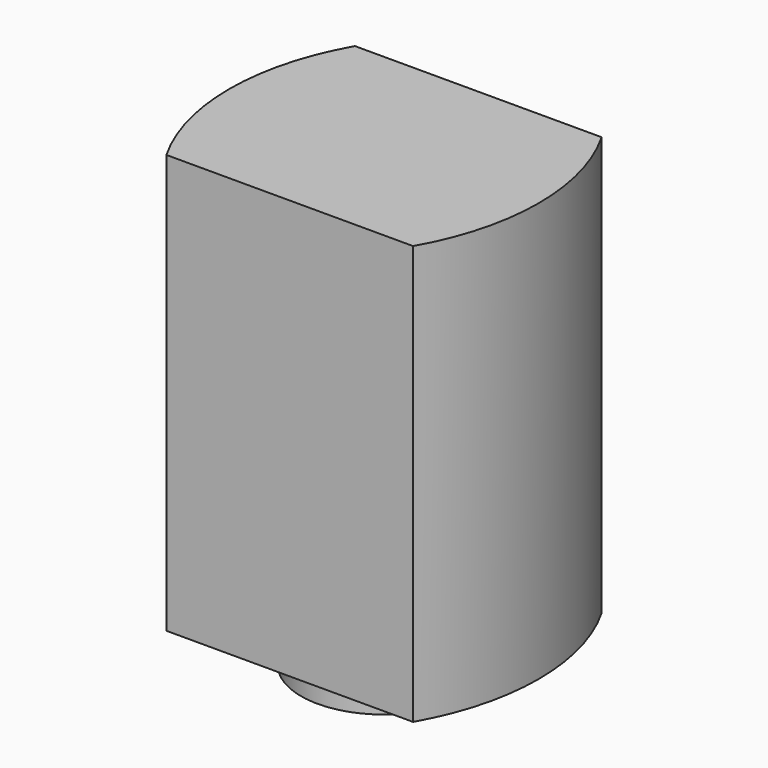
from build123d import *

# Parameters (mm, degrees)
F1_DEPTH = 12.44
F3_DEPTH = 2.28
F4_R     = 1
F5_DEPTH = 1.42


with BuildPart() as f1:
    # F0 (on Top) → F1 (new body, symmetric)
    with BuildSketch(Plane.XY):
        with BuildLine():
            Line((-7.3253149017, -7), (7.3253149017, -7))
            ThreePointArc((7.3253149017, -7), (8.7137955042, -3.6216957288), (9.1872278446, 0))
            ThreePointArc((9.1872278446, 0), (8.7137955042, 3.6216957288), (7.3253149017, 7))
            Line((7.3253149017, 7), (-7.3253149017, 7))
            ThreePointArc((-7.3253149017, 7), (-8.7137955052, 3.6216957251), (-9.1872278446, -7.5e-09))
            ThreePointArc((-9.1872278446, -7.5e-09), (-8.7137955032, -3.6216957324), (-7.3253149017, -7))
        make_face()
    extrude(amount=F1_DEPTH, both=True)

    # F2 (on face) → F3 (join)
    with BuildSketch(Plane(origin=(0, 0, -12.44), x_dir=(1, 0, 0), z_dir=(0, 0, -1))):
        with BuildLine():
            ThreePointArc((3.0027986946, -3.91), (4.4220299391, -2.1795759262), (4.93, 0))
            ThreePointArc((4.93, 0), (-2.1795759262, 4.4220299391), (-3.0027986946, -3.91))
            Line((-3.0027986946, -3.91), (3.0027986946, -3.91))
        make_face()
    extrude(amount=F3_DEPTH)

    # F4 (on face) → F5 (join)
    with BuildSketch(Plane(origin=(0, 0, -14.72), x_dir=(1, 0, 0), z_dir=(0, 0, -1))):
        Circle(F4_R)
    extrude(amount=F5_DEPTH)


solid = f1.part
